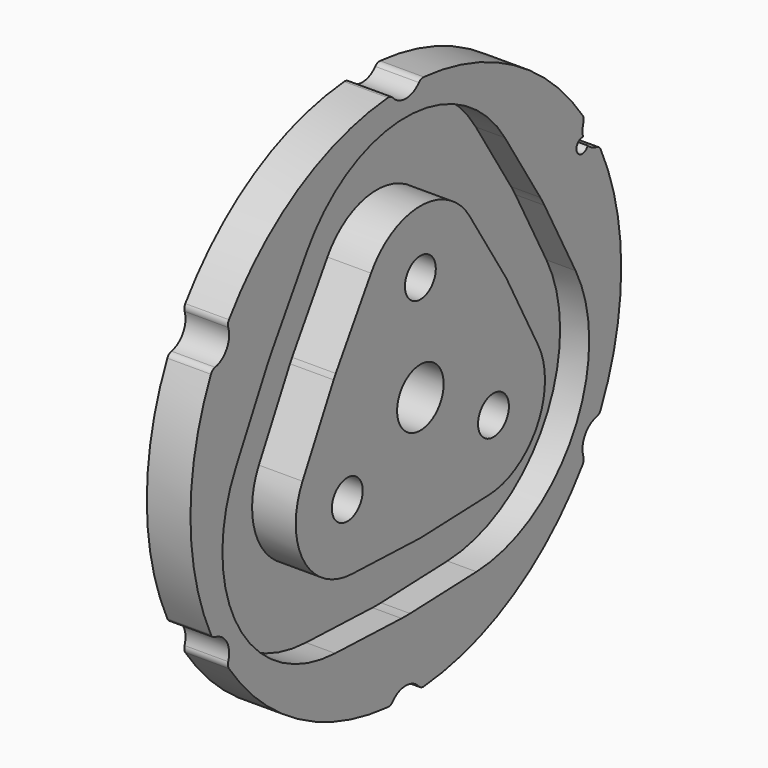
from build123d import *

# Parameters (mm, degrees)
F0_R     = 2.65
F0_R_2   = 4
F1_DEPTH = 6
F2_DEPTH = 4
F3_DEPTH = 2


with BuildPart() as f1:
    # F0 (on Right) → F1 (new body)
    with BuildSketch(Plane.YZ):
        with BuildLine():
            ThreePointArc((-2.2515407231, 36.53242851), (-2.6294191421, 36.8013801393), (-3.0879953604, 36.8709138028))
            ThreePointArc((-3.0879953604, 36.8709138028), (-18.5, 32.04293994), (-30.3871503338, 21.1097393303))
            ThreePointArc((-30.3871503338, 21.1097393303), (-30.5562205239, 20.6778338439), (-30.5122407901, 20.2161057189))
            ThreePointArc((-30.5122407901, 20.2161057189), (-30.7524645978, 17.7549437138), (-32.7637815132, 16.3163227911))
            ThreePointArc((-32.7637815132, 16.3163227911), (-33.185639666, 16.1235462954), (-33.4751456942, 15.7611744725))
            ThreePointArc((-33.4751456942, 15.7611744725), (-37, 0), (-33.4751456942, -15.7611744725))
            ThreePointArc((-33.4751456942, -15.7611744725), (-33.185639666, -16.1235462954), (-32.7637815132, -16.3163227911))
            ThreePointArc((-32.7637815132, -16.3163227911), (-30.7524645978, -17.7549437138), (-30.5122407901, -20.2161057189))
            ThreePointArc((-30.5122407901, -20.2161057189), (-30.5562205239, -20.6778338439), (-30.3871503338, -21.1097393303))
            ThreePointArc((-30.3871503338, -21.1097393303), (-18.5, -32.04293994), (-3.0879953604, -36.8709138028))
            ThreePointArc((-3.0879953604, -36.8709138028), (-2.6294191421, -36.8013801393), (-2.2515407231, -36.53242851))
            ThreePointArc((-2.2515407231, -36.53242851), (0, -35.5098874275), (2.2515407231, -36.53242851))
            ThreePointArc((2.2515407231, -36.53242851), (2.6294191421, -36.8013801393), (3.0879953604, -36.8709138028))
            ThreePointArc((3.0879953604, -36.8709138028), (18.5, -32.04293994), (30.3871503338, -21.1097393303))
            ThreePointArc((30.3871503338, -21.1097393303), (30.5562205239, -20.6778338439), (30.5122407901, -20.2161057189))
            ThreePointArc((30.5122407901, -20.2161057189), (30.7524645978, -17.7549437138), (32.7637815132, -16.3163227911))
            ThreePointArc((32.7637815132, -16.3163227911), (33.185639666, -16.1235462954), (33.4751456942, -15.7611744725))
            ThreePointArc((33.4751456942, -15.7611744725), (37, 0), (33.4751456942, 15.7611744725))
            ThreePointArc((33.4751456942, 15.7611744725), (33.185639666, 16.1235462954), (32.7637815132, 16.3163227911))
            ThreePointArc((32.7637815132, 16.3163227911), (31.941237039, 16.6082774884), (31.2380455813, 17.1253255822))
            ThreePointArc((31.2380455813, 17.1253255822), (29.4448637287, 17), (30.449989793, 18.4902782469))
            ThreePointArc((30.449989793, 18.4902782469), (30.3538087376, 19.3577839598), (30.5122407901, 20.2161057189))
            ThreePointArc((30.5122407901, 20.2161057189), (30.5562205239, 20.6778338439), (30.3871503338, 21.1097393303))
            ThreePointArc((30.3871503338, 21.1097393303), (18.5, 32.04293994), (3.0879953604, 36.8709138028))
            ThreePointArc((3.0879953604, 36.8709138028), (2.6294191421, 36.8013801393), (2.2515407231, 36.53242851))
            ThreePointArc((2.2515407231, 36.53242851), (0, 35.5098874275), (-2.2515407231, 36.53242851))
        make_face()
        with BuildLine():
            Line((-23.0952370323, 14.180454946), (-17.0328632471, 23.8484731203))
            ThreePointArc((-17.0328632471, 23.8484731203), (0.0002590164, 33.2703478915), (17.0295377344, 23.8415279974))
            Line((17.0295377344, 23.8415279974), (23.0899184639, 14.167925942))
            ThreePointArc((23.0899184639, 14.167925942), (23.4636524397, 13.5467460522), (23.8147430167, 12.9124929901))
            Line((23.8147430167, 12.9124929901), (29.162137778, 2.827248294))
            ThreePointArc((29.162137778, 2.827248294), (28.813095975, -16.6349496309), (12.1369519401, -26.6751288313))
            Line((12.1369519401, -26.6751288313), (0.7330157043, -27.0912894495))
            ThreePointArc((0.7330157043, -27.0912894495), (0, -27.1046598669), (-0.7330157043, -27.0912894495))
            Line((-0.7330157043, -27.0912894495), (-12.1441739659, -26.6748652799))
            ThreePointArc((-12.1441739659, -26.6748652799), (-28.8182692269, -16.6382354957), (-29.1731979579, 2.8202694775))
            Line((-29.1731979579, 2.8202694775), (-23.8282527367, 12.9108345034))
            ThreePointArc((-23.8282527367, 12.9108345034), (-23.4733240056, 13.5523299334), (-23.0952370323, 14.180454946))
        make_face(mode=Mode.SUBTRACT)
        with BuildLine():
            ThreePointArc((17.0295377344, 23.8415279974), (0.0002590164, 33.2703478915), (-17.0328632471, 23.8484731203))
            Line((-17.0328632471, 23.8484731203), (-23.0952370323, 14.180454946))
            ThreePointArc((-23.0952370323, 14.180454946), (-23.4733240056, 13.5523299334), (-23.8282527367, 12.9108345034))
            Line((-23.8282527367, 12.9108345034), (-29.1731979579, 2.8202694775))
            ThreePointArc((-29.1731979579, 2.8202694775), (-28.8182692269, -16.6382354957), (-12.1441739659, -26.6748652799))
            Line((-12.1441739659, -26.6748652799), (-0.7330157043, -27.0912894495))
            ThreePointArc((-0.7330157043, -27.0912894495), (0, -27.1046598669), (0.7330157043, -27.0912894495))
            Line((0.7330157043, -27.0912894495), (12.1369519401, -26.6751288313))
            ThreePointArc((12.1369519401, -26.6751288313), (28.813095975, -16.6349496309), (29.162137778, 2.827248294))
            Line((29.162137778, 2.827248294), (23.8147430167, 12.9124929901))
            ThreePointArc((23.8147430167, 12.9124929901), (23.4636524397, 13.5467460522), (23.0899184639, 14.167925942))
            Line((23.0899184639, 14.167925942), (17.0295377344, 23.8415279974))
        make_face()
        with BuildLine():
            Line((-14.5383641102, 8.8148297318), (-8.4759903249, 18.482847906))
            ThreePointArc((-8.4759903249, 18.482847906), (-0.0018003141, 23.1703476982), (8.4704774851, 18.4793926211))
            Line((8.4704774851, 18.4793926211), (14.5308582146, 8.8057905657))
            ThreePointArc((14.5308582146, 8.8057905657), (14.7167955123, 8.4967458506), (14.8914674376, 8.1811970698))
            Line((14.8914674376, 8.1811970698), (20.2388621989, -1.9040476263))
            ThreePointArc((20.2388621989, -1.9040476263), (20.0652095641, -11.5867329668), (11.7686206585, -16.5818468966))
            Line((11.7686206585, -16.5818468966), (0.3646844227, -16.9980075148))
            ThreePointArc((0.3646844227, -16.9980075148), (0, -17.0046594636), (-0.3646844227, -16.9980075148))
            Line((-0.3646844227, -16.9980075148), (-11.7758426843, -16.5815833453))
            ThreePointArc((-11.7758426843, -16.5815833453), (-20.0714122995, -11.5882352941), (-20.2479937541, -1.9073872429))
            Line((-20.2479937541, -1.9073872429), (-14.9030485329, 8.183177783))
            ThreePointArc((-14.9030485329, 8.183177783), (-14.7264670782, 8.5023297318), (-14.5383641102, 8.8148297318))
        make_face(mode=Mode.SUBTRACT)
        with BuildLine():
            ThreePointArc((8.4704774851, 18.4793926211), (-0.0018003141, 23.1703476982), (-8.4759903249, 18.482847906))
            Line((-8.4759903249, 18.482847906), (-14.5383641102, 8.8148297318))
            ThreePointArc((-14.5383641102, 8.8148297318), (-14.7264670782, 8.5023297318), (-14.9030485329, 8.183177783))
            Line((-14.9030485329, 8.183177783), (-20.2479937541, -1.9073872429))
            ThreePointArc((-20.2479937541, -1.9073872429), (-20.0714122995, -11.5882352941), (-11.7758426843, -16.5815833453))
            Line((-11.7758426843, -16.5815833453), (-0.3646844227, -16.9980075148))
            ThreePointArc((-0.3646844227, -16.9980075148), (0, -17.0046594636), (0.3646844227, -16.9980075148))
            Line((0.3646844227, -16.9980075148), (11.7686206585, -16.5818468966))
            ThreePointArc((11.7686206585, -16.5818468966), (20.0652095641, -11.5867329668), (20.2388621989, -1.9040476263))
            Line((20.2388621989, -1.9040476263), (14.8914674376, 8.1811970698))
            ThreePointArc((14.8914674376, 8.1811970698), (14.7167955123, 8.4967458506), (14.5308582146, 8.8057905657))
            Line((14.5308582146, 8.8057905657), (8.4704774851, 18.4793926211))
        make_face()
        with Locations((-12.5573683549, -7.25)):
            Circle(F0_R, mode=Mode.SUBTRACT)
        with Locations((12.5573683549, -7.25)):
            Circle(F0_R, mode=Mode.SUBTRACT)
        Circle(F0_R_2, mode=Mode.SUBTRACT)
        with Locations((0, 14.5)):
            Circle(F0_R, mode=Mode.SUBTRACT)
    extrude(amount=-F1_DEPTH)

    # F0 (on Right) → F2 (cut)
    with BuildSketch(Plane.YZ):
        with BuildLine():
            ThreePointArc((17.0295377344, 23.8415279974), (0.0002590164, 33.2703478915), (-17.0328632471, 23.8484731203))
            Line((-17.0328632471, 23.8484731203), (-23.0952370323, 14.180454946))
            ThreePointArc((-23.0952370323, 14.180454946), (-23.4733240056, 13.5523299334), (-23.8282527367, 12.9108345034))
            Line((-23.8282527367, 12.9108345034), (-29.1731979579, 2.8202694775))
            ThreePointArc((-29.1731979579, 2.8202694775), (-28.8182692269, -16.6382354957), (-12.1441739659, -26.6748652799))
            Line((-12.1441739659, -26.6748652799), (-0.7330157043, -27.0912894495))
            ThreePointArc((-0.7330157043, -27.0912894495), (0, -27.1046598669), (0.7330157043, -27.0912894495))
            Line((0.7330157043, -27.0912894495), (12.1369519401, -26.6751288313))
            ThreePointArc((12.1369519401, -26.6751288313), (28.813095975, -16.6349496309), (29.162137778, 2.827248294))
            Line((29.162137778, 2.827248294), (23.8147430167, 12.9124929901))
            ThreePointArc((23.8147430167, 12.9124929901), (23.4636524397, 13.5467460522), (23.0899184639, 14.167925942))
            Line((23.0899184639, 14.167925942), (17.0295377344, 23.8415279974))
        make_face()
        with BuildLine():
            Line((-14.5383641102, 8.8148297318), (-8.4759903249, 18.482847906))
            ThreePointArc((-8.4759903249, 18.482847906), (-0.0018003141, 23.1703476982), (8.4704774851, 18.4793926211))
            Line((8.4704774851, 18.4793926211), (14.5308582146, 8.8057905657))
            ThreePointArc((14.5308582146, 8.8057905657), (14.7167955123, 8.4967458506), (14.8914674376, 8.1811970698))
            Line((14.8914674376, 8.1811970698), (20.2388621989, -1.9040476263))
            ThreePointArc((20.2388621989, -1.9040476263), (20.0652095641, -11.5867329668), (11.7686206585, -16.5818468966))
            Line((11.7686206585, -16.5818468966), (0.3646844227, -16.9980075148))
            ThreePointArc((0.3646844227, -16.9980075148), (0, -17.0046594636), (-0.3646844227, -16.9980075148))
            Line((-0.3646844227, -16.9980075148), (-11.7758426843, -16.5815833453))
            ThreePointArc((-11.7758426843, -16.5815833453), (-20.0714122995, -11.5882352941), (-20.2479937541, -1.9073872429))
            Line((-20.2479937541, -1.9073872429), (-14.9030485329, 8.183177783))
            ThreePointArc((-14.9030485329, 8.183177783), (-14.7264670782, 8.5023297318), (-14.5383641102, 8.8148297318))
        make_face(mode=Mode.SUBTRACT)
    extrude(amount=-F2_DEPTH, mode=Mode.SUBTRACT)

    # F3 (add): a face of the model
    f3_faces = [f1.faces().sort_by_distance(p)[0] for p in [
        (0, -11.0097556238, 13.3369283968),
    ]]
    extrude(f3_faces, amount=F3_DEPTH)


solid = f1.part
